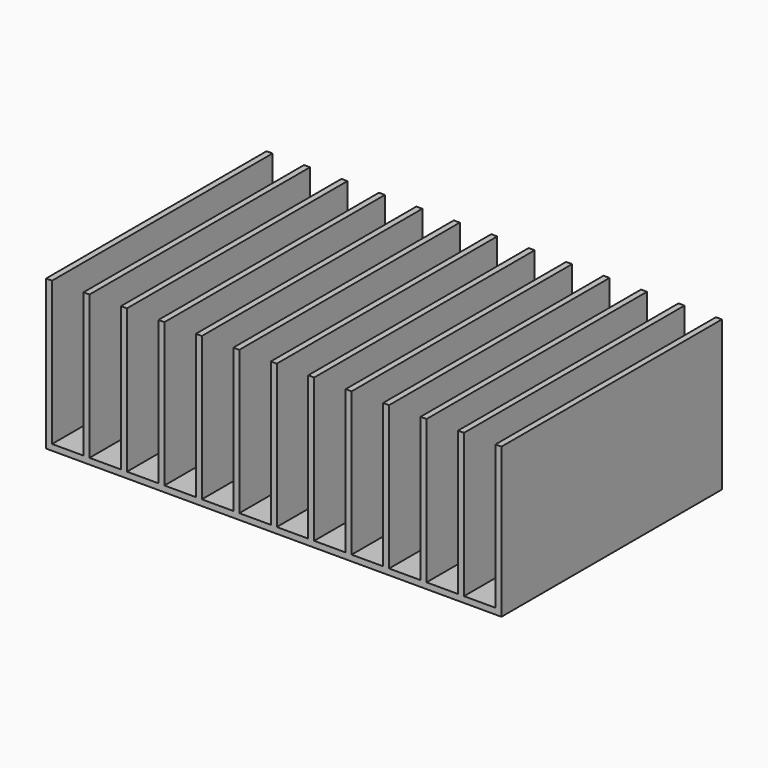
from build123d import *

# Parameters (mm, degrees)
F0_W     = 1930.4
F0_H     = 1168.4
F1_DEPTH = 25.4
F2_W     = 25.4
F2_H     = 1168.4
F3_DEPTH = 609.6


with BuildPart() as f1:
    # F0 (on Top) → F1 (new body)
    with BuildSketch(Plane.XY):
        Rectangle(F0_W, F0_H)
    extrude(amount=F1_DEPTH)

    # F2 (on face) → F3 (join)
    with BuildSketch(Plane.XY.offset(25.4)):
        with Locations((-952.5, 0)):
            Rectangle(F2_W, F2_H)
        with Locations((-793.75, 0)):
            Rectangle(F2_W, F2_H)
        with Locations((-635, 0)):
            Rectangle(F2_W, F2_H)
        with Locations((-476.25, 0)):
            Rectangle(F2_W, F2_H)
        with Locations((-317.5, 0)):
            Rectangle(F2_W, F2_H)
        with Locations((-158.75, 0)):
            Rectangle(F2_W, F2_H)
        Rectangle(F2_W, F2_H)
        with Locations((158.75, 0)):
            Rectangle(F2_W, F2_H)
        with Locations((317.5, 0)):
            Rectangle(F2_W, F2_H)
        with Locations((476.25, 0)):
            Rectangle(F2_W, F2_H)
        with Locations((635, 0)):
            Rectangle(F2_W, F2_H)
        with Locations((793.75, 0)):
            Rectangle(F2_W, F2_H)
        with Locations((952.5, 0)):
            Rectangle(F2_W, F2_H)
    extrude(amount=F3_DEPTH)


solid = f1.part
